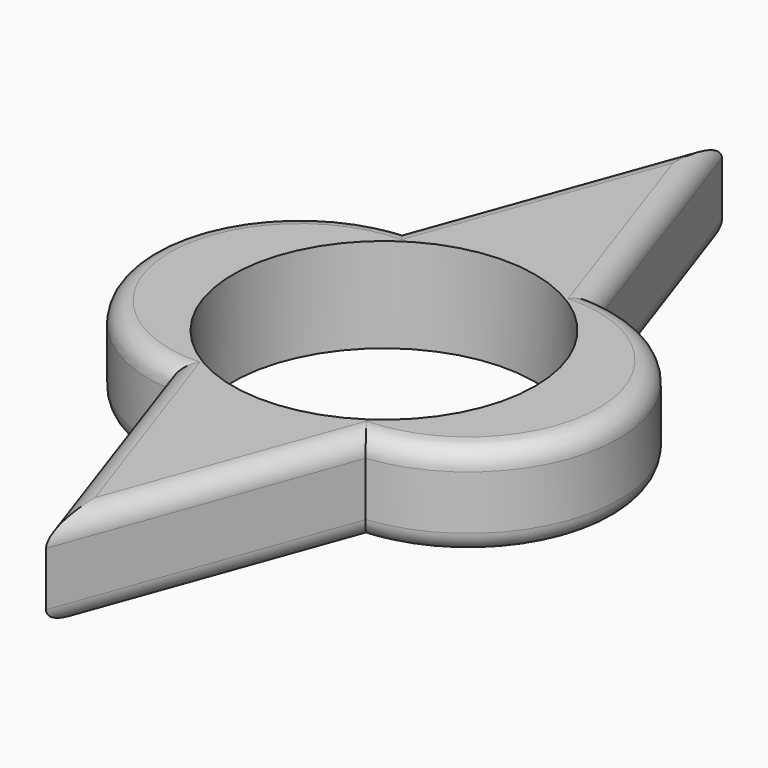
from build123d import *

# Parameters (mm, degrees)
F0_R     = 11.2
F1_DEPTH = 7
F2_R     = 1.5


with BuildPart() as f1:
    # F0 (on Top) → F1 (new body)
    with BuildSketch(Plane.XY):
        with BuildLine():
            Line((0, 31.301621), (-7.392237, 10.935943))
            ThreePointArc((-7.392237, 10.935943), (-17.283561, -0.37622), (-6.909364, -11.247253))
            Line((-6.909364, -11.247253), (0, -31.301621))
            Line((0, -31.301621), (7.392237, -10.935943))
            ThreePointArc((7.392237, -10.935943), (17.283561, 0.37622), (6.909364, 11.247253))
            Line((6.909364, 11.247253), (0, 31.301621))
        make_face()
        Circle(F0_R, mode=Mode.SUBTRACT)
    extrude(amount=F1_DEPTH)

    # F2
    f2_edges = [f1.edges().sort_by_distance(p)[0] for p in [
        (3.696118, -21.118782, 7),
        (-3.454682, -21.274437, 7),
        (-17.283561, -0.37622, 7),
        (-3.696118, 21.118782, 7),
        (17.283561, 0.37622, 7),
        (3.454682, 21.274437, 7),
        (3.696118, -21.118782, 0),
        (17.283561, 0.37622, 0),
        (3.454682, 21.274437, 0),
        (-3.696118, 21.118782, 0),
        (-17.283561, -0.37622, 0),
        (-3.454682, -21.274437, 0),
    ]]
    fillet(f2_edges, radius=F2_R)


solid = f1.part
